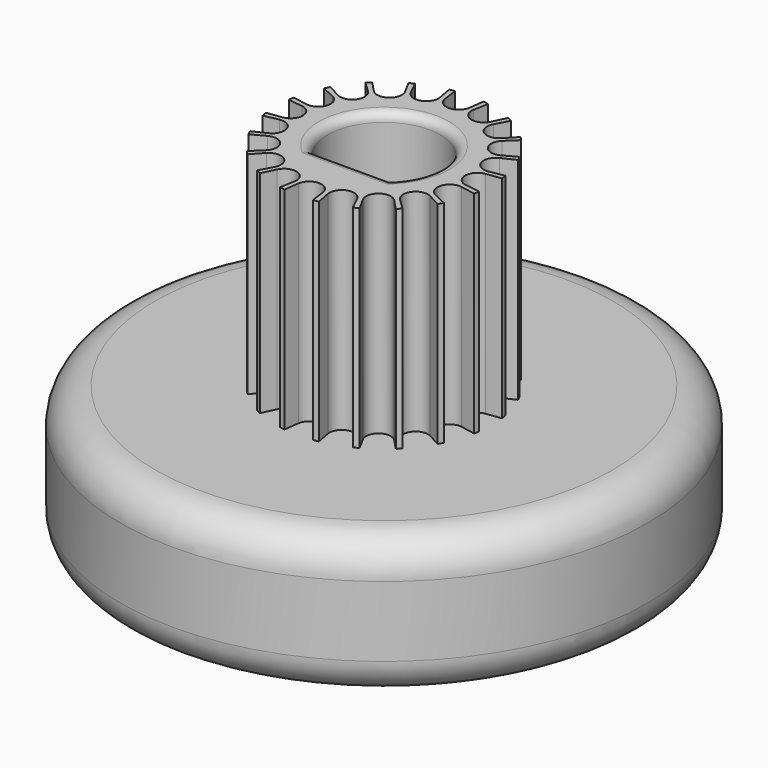
from build123d import *

# Parameters (mm, degrees)
F1_DEPTH = 12
F0_R     = 15
F2_DEPTH = 8
F3_R     = 2
F4_R     = 0.5


with BuildPart() as f1:
    # F0 (on Top) → F1 (new body)
    with BuildSketch(Plane.XY):
        with BuildLine():
            Line((5.2177212806, 0.693890941), (6.0566766418, 0.8054613936))
            ThreePointArc((6.0566766418, 0.8054613936), (6.034775761, 0.9558145814), (6.0091430462, 1.1055767047))
            Line((6.0091430462, 1.1055767047), (5.1767719171, 0.9524350466))
            ThreePointArc((5.1767719171, 0.9524350466), (4.3843705401, 1.4245683441), (4.7479237311, 2.2722940486))
            Line((4.7479237311, 2.2722940486), (5.5113405283, 2.6376553188))
            ThreePointArc((5.5113405283, 2.6376553188), (5.4440498628, 2.7738819534), (5.3733926611, 2.9083932522))
            Line((5.3733926611, 2.9083932522), (4.6290840497, 2.5055300558))
            ThreePointArc((4.6290840497, 2.5055300558), (3.7295683441, 2.7096900131), (3.8133663261, 3.6282691828))
            Line((3.8133663261, 3.6282691828), (4.4265160042, 4.2116571637))
            ThreePointArc((4.4265160042, 4.2116571637), (4.320422433, 4.320422433), (4.2116571637, 4.4265160042))
            Line((4.2116571637, 4.4265160042), (3.6282691828, 3.8133663261))
            ThreePointArc((3.6282691828, 3.8133663261), (2.7096900131, 3.7295683441), (2.5055300558, 4.6290840497))
            Line((2.5055300558, 4.6290840497), (2.9083932522, 5.3733926611))
            ThreePointArc((2.9083932522, 5.3733926611), (2.7738819534, 5.4440498628), (2.6376553188, 5.5113405283))
            Line((2.6376553188, 5.5113405283), (2.2722940486, 4.7479237311))
            ThreePointArc((2.2722940486, 4.7479237311), (1.4245683441, 4.3843705401), (0.9524350466, 5.1767719171))
            Line((0.9524350466, 5.1767719171), (1.1055767047, 6.0091430462))
            ThreePointArc((1.1055767047, 6.0091430462), (0.9558145814, 6.034775761), (0.8054613936, 6.0566766418))
            Line((0.8054613936, 6.0566766418), (0.693890941, 5.2177212806))
            ThreePointArc((0.693890941, 5.2177212806), (0, 4.61), (-0.693890941, 5.2177212806))
            Line((-0.693890941, 5.2177212806), (-0.8054613936, 6.0566766418))
            ThreePointArc((-0.8054613936, 6.0566766418), (-0.9558145814, 6.034775761), (-1.1055767047, 6.0091430462))
            Line((-1.1055767047, 6.0091430462), (-0.9524350466, 5.1767719171))
            ThreePointArc((-0.9524350466, 5.1767719171), (-1.4245683441, 4.3843705401), (-2.2722940486, 4.7479237311))
            Line((-2.2722940486, 4.7479237311), (-2.6376553188, 5.5113405283))
            ThreePointArc((-2.6376553188, 5.5113405283), (-2.7738819534, 5.4440498628), (-2.9083932522, 5.3733926611))
            Line((-2.9083932522, 5.3733926611), (-2.5055300558, 4.6290840497))
            ThreePointArc((-2.5055300558, 4.6290840497), (-2.7096900131, 3.7295683441), (-3.6282691828, 3.8133663261))
            Line((-3.6282691828, 3.8133663261), (-4.2116571637, 4.4265160042))
            ThreePointArc((-4.2116571637, 4.4265160042), (-4.320422433, 4.320422433), (-4.4265160042, 4.2116571637))
            Line((-4.4265160042, 4.2116571637), (-3.8133663261, 3.6282691828))
            ThreePointArc((-3.8133663261, 3.6282691828), (-3.7295683441, 2.7096900131), (-4.6290840497, 2.5055300558))
            Line((-4.6290840497, 2.5055300558), (-5.3733926611, 2.9083932522))
            ThreePointArc((-5.3733926611, 2.9083932522), (-5.4440498628, 2.7738819534), (-5.5113405283, 2.6376553188))
            Line((-5.5113405283, 2.6376553188), (-4.7479237311, 2.2722940486))
            ThreePointArc((-4.7479237311, 2.2722940486), (-4.3843705401, 1.4245683441), (-5.1767719171, 0.9524350466))
            Line((-5.1767719171, 0.9524350466), (-6.0091430462, 1.1055767047))
            ThreePointArc((-6.0091430462, 1.1055767047), (-6.034775761, 0.9558145814), (-6.0566766418, 0.8054613936))
            Line((-6.0566766418, 0.8054613936), (-5.2177212806, 0.693890941))
            ThreePointArc((-5.2177212806, 0.693890941), (-4.61, 0), (-5.2177212806, -0.693890941))
            Line((-5.2177212806, -0.693890941), (-6.0566766418, -0.8054613936))
            ThreePointArc((-6.0566766418, -0.8054613936), (-6.034775761, -0.9558145814), (-6.0091430462, -1.1055767047))
            Line((-6.0091430462, -1.1055767047), (-5.1767719171, -0.9524350466))
            ThreePointArc((-5.1767719171, -0.9524350466), (-4.3843705401, -1.4245683441), (-4.7479237311, -2.2722940486))
            Line((-4.7479237311, -2.2722940486), (-5.5113405283, -2.6376553188))
            ThreePointArc((-5.5113405283, -2.6376553188), (-5.4440498628, -2.7738819534), (-5.3733926611, -2.9083932522))
            Line((-5.3733926611, -2.9083932522), (-4.6290840497, -2.5055300558))
            ThreePointArc((-4.6290840497, -2.5055300558), (-3.7295683441, -2.7096900131), (-3.8133663261, -3.6282691828))
            Line((-3.8133663261, -3.6282691828), (-4.4265160042, -4.2116571637))
            ThreePointArc((-4.4265160042, -4.2116571637), (-4.320422433, -4.320422433), (-4.2116571637, -4.4265160042))
            Line((-4.2116571637, -4.4265160042), (-3.6282691828, -3.8133663261))
            ThreePointArc((-3.6282691828, -3.8133663261), (-2.7096900131, -3.7295683441), (-2.5055300558, -4.6290840497))
            Line((-2.5055300558, -4.6290840497), (-2.9083932522, -5.3733926611))
            ThreePointArc((-2.9083932522, -5.3733926611), (-2.7738819534, -5.4440498628), (-2.6376553188, -5.5113405283))
            Line((-2.6376553188, -5.5113405283), (-2.2722940486, -4.7479237311))
            ThreePointArc((-2.2722940486, -4.7479237311), (-1.4245683441, -4.3843705401), (-0.9524350466, -5.1767719171))
            Line((-0.9524350466, -5.1767719171), (-1.1055767047, -6.0091430462))
            ThreePointArc((-1.1055767047, -6.0091430462), (-0.9558145814, -6.034775761), (-0.8054613936, -6.0566766418))
            Line((-0.8054613936, -6.0566766418), (-0.693890941, -5.2177212806))
            ThreePointArc((-0.693890941, -5.2177212806), (0, -4.61), (0.693890941, -5.2177212806))
            Line((0.693890941, -5.2177212806), (0.8054613936, -6.0566766418))
            ThreePointArc((0.8054613936, -6.0566766418), (0.9558145814, -6.034775761), (1.1055767047, -6.0091430462))
            Line((1.1055767047, -6.0091430462), (0.9524350466, -5.1767719171))
            ThreePointArc((0.9524350466, -5.1767719171), (1.4245683441, -4.3843705401), (2.2722940486, -4.7479237311))
            Line((2.2722940486, -4.7479237311), (2.6376553188, -5.5113405283))
            ThreePointArc((2.6376553188, -5.5113405283), (2.7738819534, -5.4440498628), (2.9083932522, -5.3733926611))
            Line((2.9083932522, -5.3733926611), (2.5055300558, -4.6290840497))
            ThreePointArc((2.5055300558, -4.6290840497), (2.7096900131, -3.7295683441), (3.6282691828, -3.8133663261))
            Line((3.6282691828, -3.8133663261), (4.2116571637, -4.4265160042))
            ThreePointArc((4.2116571637, -4.4265160042), (4.320422433, -4.320422433), (4.4265160042, -4.2116571637))
            Line((4.4265160042, -4.2116571637), (3.8133663261, -3.6282691828))
            ThreePointArc((3.8133663261, -3.6282691828), (3.7295683441, -2.7096900131), (4.6290840497, -2.5055300558))
            Line((4.6290840497, -2.5055300558), (5.3733926611, -2.9083932522))
            ThreePointArc((5.3733926611, -2.9083932522), (5.4440498628, -2.7738819534), (5.5113405283, -2.6376553188))
            Line((5.5113405283, -2.6376553188), (4.7479237311, -2.2722940486))
            ThreePointArc((4.7479237311, -2.2722940486), (4.3843705401, -1.4245683441), (5.1767719171, -0.9524350466))
            Line((5.1767719171, -0.9524350466), (6.0091430462, -1.1055767047))
            ThreePointArc((6.0091430462, -1.1055767047), (6.034775761, -0.9558145814), (6.0566766418, -0.8054613936))
            Line((6.0566766418, -0.8054613936), (5.2177212806, -0.693890941))
            ThreePointArc((5.2177212806, -0.693890941), (4.61, 0), (5.2177212806, 0.693890941))
        make_face()
        with BuildLine():
            ThreePointArc((-2.2248595461, -2.3), (0, 3.2), (2.2248595461, -2.3))
            Line((2.2248595461, -2.3), (-2.2248595461, -2.3))
        make_face(mode=Mode.SUBTRACT)
    extrude(amount=F1_DEPTH)

    # F0 (on Top) → F2 (join)
    with BuildSketch(Plane.XY):
        Circle(F0_R)
        with BuildLine():
            ThreePointArc((6.0566766418, 0.8054613936), (6.096654586, 0.4036122635), (6.11, 0))
            ThreePointArc((6.11, 0), (6.096654586, -0.4036122635), (6.0566766418, -0.8054613936))
            ThreePointArc((6.0566766418, -0.8054613936), (6.034775761, -0.9558145814), (6.0091430462, -1.1055767047))
            ThreePointArc((6.0091430462, -1.1055767047), (5.8109553146, -1.8880938356), (5.5113405283, -2.6376553188))
            ThreePointArc((5.5113405283, -2.6376553188), (5.4440498628, -2.7738819534), (5.3733926611, -2.9083932522))
            ThreePointArc((5.3733926611, -2.9083932522), (4.9430938356, -3.5913678915), (4.4265160042, -4.2116571637))
            ThreePointArc((4.4265160042, -4.2116571637), (4.320422433, -4.320422433), (4.2116571637, -4.4265160042))
            ThreePointArc((4.2116571637, -4.4265160042), (3.5913678915, -4.9430938356), (2.9083932522, -5.3733926611))
            ThreePointArc((2.9083932522, -5.3733926611), (2.7738819534, -5.4440498628), (2.6376553188, -5.5113405283))
            ThreePointArc((2.6376553188, -5.5113405283), (1.8880938356, -5.8109553146), (1.1055767047, -6.0091430462))
            ThreePointArc((1.1055767047, -6.0091430462), (0.9558145814, -6.034775761), (0.8054613936, -6.0566766418))
            ThreePointArc((0.8054613936, -6.0566766418), (0, -6.11), (-0.8054613936, -6.0566766418))
            ThreePointArc((-0.8054613936, -6.0566766418), (-0.9558145814, -6.034775761), (-1.1055767047, -6.0091430462))
            ThreePointArc((-1.1055767047, -6.0091430462), (-1.8880938356, -5.8109553146), (-2.6376553188, -5.5113405283))
            ThreePointArc((-2.6376553188, -5.5113405283), (-2.7738819534, -5.4440498628), (-2.9083932522, -5.3733926611))
            ThreePointArc((-2.9083932522, -5.3733926611), (-3.5913678915, -4.9430938356), (-4.2116571637, -4.4265160042))
            ThreePointArc((-4.2116571637, -4.4265160042), (-4.320422433, -4.320422433), (-4.4265160042, -4.2116571637))
            ThreePointArc((-4.4265160042, -4.2116571637), (-4.9430938356, -3.5913678915), (-5.3733926611, -2.9083932522))
            ThreePointArc((-5.3733926611, -2.9083932522), (-5.4440498628, -2.7738819534), (-5.5113405283, -2.6376553188))
            ThreePointArc((-5.5113405283, -2.6376553188), (-5.8109553146, -1.8880938356), (-6.0091430462, -1.1055767047))
            ThreePointArc((-6.0091430462, -1.1055767047), (-6.034775761, -0.9558145814), (-6.0566766418, -0.8054613936))
            ThreePointArc((-6.0566766418, -0.8054613936), (-6.11, 0), (-6.0566766418, 0.8054613936))
            ThreePointArc((-6.0566766418, 0.8054613936), (-6.034775761, 0.9558145814), (-6.0091430462, 1.1055767047))
            ThreePointArc((-6.0091430462, 1.1055767047), (-5.8109553146, 1.8880938356), (-5.5113405283, 2.6376553188))
            ThreePointArc((-5.5113405283, 2.6376553188), (-5.4440498628, 2.7738819534), (-5.3733926611, 2.9083932522))
            ThreePointArc((-5.3733926611, 2.9083932522), (-4.9430938356, 3.5913678915), (-4.4265160042, 4.2116571637))
            ThreePointArc((-4.4265160042, 4.2116571637), (-4.320422433, 4.320422433), (-4.2116571637, 4.4265160042))
            ThreePointArc((-4.2116571637, 4.4265160042), (-3.5913678915, 4.9430938356), (-2.9083932522, 5.3733926611))
            ThreePointArc((-2.9083932522, 5.3733926611), (-2.7738819534, 5.4440498628), (-2.6376553188, 5.5113405283))
            ThreePointArc((-2.6376553188, 5.5113405283), (-1.8880938356, 5.8109553146), (-1.1055767047, 6.0091430462))
            ThreePointArc((-1.1055767047, 6.0091430462), (-0.9558145814, 6.034775761), (-0.8054613936, 6.0566766418))
            ThreePointArc((-0.8054613936, 6.0566766418), (0, 6.11), (0.8054613936, 6.0566766418))
            ThreePointArc((0.8054613936, 6.0566766418), (0.9558145814, 6.034775761), (1.1055767047, 6.0091430462))
            ThreePointArc((1.1055767047, 6.0091430462), (1.8880938356, 5.8109553146), (2.6376553188, 5.5113405283))
            ThreePointArc((2.6376553188, 5.5113405283), (2.7738819534, 5.4440498628), (2.9083932522, 5.3733926611))
            ThreePointArc((2.9083932522, 5.3733926611), (3.5913678915, 4.9430938356), (4.2116571637, 4.4265160042))
            ThreePointArc((4.2116571637, 4.4265160042), (4.320422433, 4.320422433), (4.4265160042, 4.2116571637))
            ThreePointArc((4.4265160042, 4.2116571637), (4.9430938356, 3.5913678915), (5.3733926611, 2.9083932522))
            ThreePointArc((5.3733926611, 2.9083932522), (5.4440498628, 2.7738819534), (5.5113405283, 2.6376553188))
            ThreePointArc((5.5113405283, 2.6376553188), (5.8109553146, 1.8880938356), (6.0091430462, 1.1055767047))
            ThreePointArc((6.0091430462, 1.1055767047), (6.034775761, 0.9558145814), (6.0566766418, 0.8054613936))
        make_face(mode=Mode.SUBTRACT)
        with BuildLine():
            Line((5.2177212806, 0.693890941), (6.0566766418, 0.8054613936))
            ThreePointArc((6.0566766418, 0.8054613936), (6.034775761, 0.9558145814), (6.0091430462, 1.1055767047))
            Line((6.0091430462, 1.1055767047), (5.1767719171, 0.9524350466))
            ThreePointArc((5.1767719171, 0.9524350466), (4.3843705401, 1.4245683441), (4.7479237311, 2.2722940486))
            Line((4.7479237311, 2.2722940486), (5.5113405283, 2.6376553188))
            ThreePointArc((5.5113405283, 2.6376553188), (5.4440498628, 2.7738819534), (5.3733926611, 2.9083932522))
            Line((5.3733926611, 2.9083932522), (4.6290840497, 2.5055300558))
            ThreePointArc((4.6290840497, 2.5055300558), (3.7295683441, 2.7096900131), (3.8133663261, 3.6282691828))
            Line((3.8133663261, 3.6282691828), (4.4265160042, 4.2116571637))
            ThreePointArc((4.4265160042, 4.2116571637), (4.320422433, 4.320422433), (4.2116571637, 4.4265160042))
            Line((4.2116571637, 4.4265160042), (3.6282691828, 3.8133663261))
            ThreePointArc((3.6282691828, 3.8133663261), (2.7096900131, 3.7295683441), (2.5055300558, 4.6290840497))
            Line((2.5055300558, 4.6290840497), (2.9083932522, 5.3733926611))
            ThreePointArc((2.9083932522, 5.3733926611), (2.7738819534, 5.4440498628), (2.6376553188, 5.5113405283))
            Line((2.6376553188, 5.5113405283), (2.2722940486, 4.7479237311))
            ThreePointArc((2.2722940486, 4.7479237311), (1.4245683441, 4.3843705401), (0.9524350466, 5.1767719171))
            Line((0.9524350466, 5.1767719171), (1.1055767047, 6.0091430462))
            ThreePointArc((1.1055767047, 6.0091430462), (0.9558145814, 6.034775761), (0.8054613936, 6.0566766418))
            Line((0.8054613936, 6.0566766418), (0.693890941, 5.2177212806))
            ThreePointArc((0.693890941, 5.2177212806), (0, 4.61), (-0.693890941, 5.2177212806))
            Line((-0.693890941, 5.2177212806), (-0.8054613936, 6.0566766418))
            ThreePointArc((-0.8054613936, 6.0566766418), (-0.9558145814, 6.034775761), (-1.1055767047, 6.0091430462))
            Line((-1.1055767047, 6.0091430462), (-0.9524350466, 5.1767719171))
            ThreePointArc((-0.9524350466, 5.1767719171), (-1.4245683441, 4.3843705401), (-2.2722940486, 4.7479237311))
            Line((-2.2722940486, 4.7479237311), (-2.6376553188, 5.5113405283))
            ThreePointArc((-2.6376553188, 5.5113405283), (-2.7738819534, 5.4440498628), (-2.9083932522, 5.3733926611))
            Line((-2.9083932522, 5.3733926611), (-2.5055300558, 4.6290840497))
            ThreePointArc((-2.5055300558, 4.6290840497), (-2.7096900131, 3.7295683441), (-3.6282691828, 3.8133663261))
            Line((-3.6282691828, 3.8133663261), (-4.2116571637, 4.4265160042))
            ThreePointArc((-4.2116571637, 4.4265160042), (-4.320422433, 4.320422433), (-4.4265160042, 4.2116571637))
            Line((-4.4265160042, 4.2116571637), (-3.8133663261, 3.6282691828))
            ThreePointArc((-3.8133663261, 3.6282691828), (-3.7295683441, 2.7096900131), (-4.6290840497, 2.5055300558))
            Line((-4.6290840497, 2.5055300558), (-5.3733926611, 2.9083932522))
            ThreePointArc((-5.3733926611, 2.9083932522), (-5.4440498628, 2.7738819534), (-5.5113405283, 2.6376553188))
            Line((-5.5113405283, 2.6376553188), (-4.7479237311, 2.2722940486))
            ThreePointArc((-4.7479237311, 2.2722940486), (-4.3843705401, 1.4245683441), (-5.1767719171, 0.9524350466))
            Line((-5.1767719171, 0.9524350466), (-6.0091430462, 1.1055767047))
            ThreePointArc((-6.0091430462, 1.1055767047), (-6.034775761, 0.9558145814), (-6.0566766418, 0.8054613936))
            Line((-6.0566766418, 0.8054613936), (-5.2177212806, 0.693890941))
            ThreePointArc((-5.2177212806, 0.693890941), (-4.61, 0), (-5.2177212806, -0.693890941))
            Line((-5.2177212806, -0.693890941), (-6.0566766418, -0.8054613936))
            ThreePointArc((-6.0566766418, -0.8054613936), (-6.034775761, -0.9558145814), (-6.0091430462, -1.1055767047))
            Line((-6.0091430462, -1.1055767047), (-5.1767719171, -0.9524350466))
            ThreePointArc((-5.1767719171, -0.9524350466), (-4.3843705401, -1.4245683441), (-4.7479237311, -2.2722940486))
            Line((-4.7479237311, -2.2722940486), (-5.5113405283, -2.6376553188))
            ThreePointArc((-5.5113405283, -2.6376553188), (-5.4440498628, -2.7738819534), (-5.3733926611, -2.9083932522))
            Line((-5.3733926611, -2.9083932522), (-4.6290840497, -2.5055300558))
            ThreePointArc((-4.6290840497, -2.5055300558), (-3.7295683441, -2.7096900131), (-3.8133663261, -3.6282691828))
            Line((-3.8133663261, -3.6282691828), (-4.4265160042, -4.2116571637))
            ThreePointArc((-4.4265160042, -4.2116571637), (-4.320422433, -4.320422433), (-4.2116571637, -4.4265160042))
            Line((-4.2116571637, -4.4265160042), (-3.6282691828, -3.8133663261))
            ThreePointArc((-3.6282691828, -3.8133663261), (-2.7096900131, -3.7295683441), (-2.5055300558, -4.6290840497))
            Line((-2.5055300558, -4.6290840497), (-2.9083932522, -5.3733926611))
            ThreePointArc((-2.9083932522, -5.3733926611), (-2.7738819534, -5.4440498628), (-2.6376553188, -5.5113405283))
            Line((-2.6376553188, -5.5113405283), (-2.2722940486, -4.7479237311))
            ThreePointArc((-2.2722940486, -4.7479237311), (-1.4245683441, -4.3843705401), (-0.9524350466, -5.1767719171))
            Line((-0.9524350466, -5.1767719171), (-1.1055767047, -6.0091430462))
            ThreePointArc((-1.1055767047, -6.0091430462), (-0.9558145814, -6.034775761), (-0.8054613936, -6.0566766418))
            Line((-0.8054613936, -6.0566766418), (-0.693890941, -5.2177212806))
            ThreePointArc((-0.693890941, -5.2177212806), (0, -4.61), (0.693890941, -5.2177212806))
            Line((0.693890941, -5.2177212806), (0.8054613936, -6.0566766418))
            ThreePointArc((0.8054613936, -6.0566766418), (0.9558145814, -6.034775761), (1.1055767047, -6.0091430462))
            Line((1.1055767047, -6.0091430462), (0.9524350466, -5.1767719171))
            ThreePointArc((0.9524350466, -5.1767719171), (1.4245683441, -4.3843705401), (2.2722940486, -4.7479237311))
            Line((2.2722940486, -4.7479237311), (2.6376553188, -5.5113405283))
            ThreePointArc((2.6376553188, -5.5113405283), (2.7738819534, -5.4440498628), (2.9083932522, -5.3733926611))
            Line((2.9083932522, -5.3733926611), (2.5055300558, -4.6290840497))
            ThreePointArc((2.5055300558, -4.6290840497), (2.7096900131, -3.7295683441), (3.6282691828, -3.8133663261))
            Line((3.6282691828, -3.8133663261), (4.2116571637, -4.4265160042))
            ThreePointArc((4.2116571637, -4.4265160042), (4.320422433, -4.320422433), (4.4265160042, -4.2116571637))
            Line((4.4265160042, -4.2116571637), (3.8133663261, -3.6282691828))
            ThreePointArc((3.8133663261, -3.6282691828), (3.7295683441, -2.7096900131), (4.6290840497, -2.5055300558))
            Line((4.6290840497, -2.5055300558), (5.3733926611, -2.9083932522))
            ThreePointArc((5.3733926611, -2.9083932522), (5.4440498628, -2.7738819534), (5.5113405283, -2.6376553188))
            Line((5.5113405283, -2.6376553188), (4.7479237311, -2.2722940486))
            ThreePointArc((4.7479237311, -2.2722940486), (4.3843705401, -1.4245683441), (5.1767719171, -0.9524350466))
            Line((5.1767719171, -0.9524350466), (6.0091430462, -1.1055767047))
            ThreePointArc((6.0091430462, -1.1055767047), (6.034775761, -0.9558145814), (6.0566766418, -0.8054613936))
            Line((6.0566766418, -0.8054613936), (5.2177212806, -0.693890941))
            ThreePointArc((5.2177212806, -0.693890941), (4.61, 0), (5.2177212806, 0.693890941))
        make_face()
        with BuildLine():
            ThreePointArc((-2.2248595461, -2.3), (0, 3.2), (2.2248595461, -2.3))
            Line((2.2248595461, -2.3), (-2.2248595461, -2.3))
        make_face(mode=Mode.SUBTRACT)
        with BuildLine():
            ThreePointArc((-5.3733926611, -2.9083932522), (-4.9430938356, -3.5913678915), (-4.4265160042, -4.2116571637))
            Line((-4.4265160042, -4.2116571637), (-3.8133663261, -3.6282691828))
            ThreePointArc((-3.8133663261, -3.6282691828), (-3.7295683441, -2.7096900131), (-4.6290840497, -2.5055300558))
            Line((-4.6290840497, -2.5055300558), (-5.3733926611, -2.9083932522))
        make_face()
        with BuildLine():
            ThreePointArc((-6.0091430462, -1.1055767047), (-5.8109553146, -1.8880938356), (-5.5113405283, -2.6376553188))
            Line((-5.5113405283, -2.6376553188), (-4.7479237311, -2.2722940486))
            ThreePointArc((-4.7479237311, -2.2722940486), (-4.3843705401, -1.4245683441), (-5.1767719171, -0.9524350466))
            Line((-5.1767719171, -0.9524350466), (-6.0091430462, -1.1055767047))
        make_face()
        with BuildLine():
            ThreePointArc((-4.2116571637, -4.4265160042), (-3.5913678915, -4.9430938356), (-2.9083932522, -5.3733926611))
            Line((-2.9083932522, -5.3733926611), (-2.5055300558, -4.6290840497))
            ThreePointArc((-2.5055300558, -4.6290840497), (-2.7096900131, -3.7295683441), (-3.6282691828, -3.8133663261))
            Line((-3.6282691828, -3.8133663261), (-4.2116571637, -4.4265160042))
        make_face()
        with BuildLine():
            ThreePointArc((-2.6376553188, -5.5113405283), (-1.8880938356, -5.8109553146), (-1.1055767047, -6.0091430462))
            Line((-1.1055767047, -6.0091430462), (-0.9524350466, -5.1767719171))
            ThreePointArc((-0.9524350466, -5.1767719171), (-1.4245683441, -4.3843705401), (-2.2722940486, -4.7479237311))
            Line((-2.2722940486, -4.7479237311), (-2.6376553188, -5.5113405283))
        make_face()
        with BuildLine():
            ThreePointArc((-0.8054613936, -6.0566766418), (0, -6.11), (0.8054613936, -6.0566766418))
            Line((0.8054613936, -6.0566766418), (0.693890941, -5.2177212806))
            ThreePointArc((0.693890941, -5.2177212806), (0, -4.61), (-0.693890941, -5.2177212806))
            Line((-0.693890941, -5.2177212806), (-0.8054613936, -6.0566766418))
        make_face()
        with BuildLine():
            ThreePointArc((1.1055767047, -6.0091430462), (1.8880938356, -5.8109553146), (2.6376553188, -5.5113405283))
            Line((2.6376553188, -5.5113405283), (2.2722940486, -4.7479237311))
            ThreePointArc((2.2722940486, -4.7479237311), (1.4245683441, -4.3843705401), (0.9524350466, -5.1767719171))
            Line((0.9524350466, -5.1767719171), (1.1055767047, -6.0091430462))
        make_face()
        with BuildLine():
            ThreePointArc((2.9083932522, -5.3733926611), (3.5913678915, -4.9430938356), (4.2116571637, -4.4265160042))
            Line((4.2116571637, -4.4265160042), (3.6282691828, -3.8133663261))
            ThreePointArc((3.6282691828, -3.8133663261), (2.7096900131, -3.7295683441), (2.5055300558, -4.6290840497))
            Line((2.5055300558, -4.6290840497), (2.9083932522, -5.3733926611))
        make_face()
        with BuildLine():
            ThreePointArc((4.4265160042, -4.2116571637), (4.9430938356, -3.5913678915), (5.3733926611, -2.9083932522))
            Line((5.3733926611, -2.9083932522), (4.6290840497, -2.5055300558))
            ThreePointArc((4.6290840497, -2.5055300558), (3.7295683441, -2.7096900131), (3.8133663261, -3.6282691828))
            Line((3.8133663261, -3.6282691828), (4.4265160042, -4.2116571637))
        make_face()
        with BuildLine():
            ThreePointArc((5.5113405283, -2.6376553188), (5.8109553146, -1.8880938356), (6.0091430462, -1.1055767047))
            Line((6.0091430462, -1.1055767047), (5.1767719171, -0.9524350466))
            ThreePointArc((5.1767719171, -0.9524350466), (4.3843705401, -1.4245683441), (4.7479237311, -2.2722940486))
            Line((4.7479237311, -2.2722940486), (5.5113405283, -2.6376553188))
        make_face()
        with BuildLine():
            ThreePointArc((6.0566766418, -0.8054613936), (6.096654586, -0.4036122635), (6.11, 0))
            ThreePointArc((6.11, 0), (6.096654586, 0.4036122635), (6.0566766418, 0.8054613936))
            Line((6.0566766418, 0.8054613936), (5.2177212806, 0.693890941))
            ThreePointArc((5.2177212806, 0.693890941), (4.61, 0), (5.2177212806, -0.693890941))
            Line((5.2177212806, -0.693890941), (6.0566766418, -0.8054613936))
        make_face()
        with BuildLine():
            Line((5.1767719171, 0.9524350466), (6.0091430462, 1.1055767047))
            ThreePointArc((6.0091430462, 1.1055767047), (5.8109553146, 1.8880938356), (5.5113405283, 2.6376553188))
            Line((5.5113405283, 2.6376553188), (4.7479237311, 2.2722940486))
            ThreePointArc((4.7479237311, 2.2722940486), (4.3843705401, 1.4245683441), (5.1767719171, 0.9524350466))
        make_face()
        with BuildLine():
            Line((4.6290840497, 2.5055300558), (5.3733926611, 2.9083932522))
            ThreePointArc((5.3733926611, 2.9083932522), (4.9430938356, 3.5913678915), (4.4265160042, 4.2116571637))
            Line((4.4265160042, 4.2116571637), (3.8133663261, 3.6282691828))
            ThreePointArc((3.8133663261, 3.6282691828), (3.7295683441, 2.7096900131), (4.6290840497, 2.5055300558))
        make_face()
        with BuildLine():
            Line((3.6282691828, 3.8133663261), (4.2116571637, 4.4265160042))
            ThreePointArc((4.2116571637, 4.4265160042), (3.5913678915, 4.9430938356), (2.9083932522, 5.3733926611))
            Line((2.9083932522, 5.3733926611), (2.5055300558, 4.6290840497))
            ThreePointArc((2.5055300558, 4.6290840497), (2.7096900131, 3.7295683441), (3.6282691828, 3.8133663261))
        make_face()
        with BuildLine():
            Line((2.2722940486, 4.7479237311), (2.6376553188, 5.5113405283))
            ThreePointArc((2.6376553188, 5.5113405283), (1.8880938356, 5.8109553146), (1.1055767047, 6.0091430462))
            Line((1.1055767047, 6.0091430462), (0.9524350466, 5.1767719171))
            ThreePointArc((0.9524350466, 5.1767719171), (1.4245683441, 4.3843705401), (2.2722940486, 4.7479237311))
        make_face()
        with BuildLine():
            Line((0.693890941, 5.2177212806), (0.8054613936, 6.0566766418))
            ThreePointArc((0.8054613936, 6.0566766418), (0, 6.11), (-0.8054613936, 6.0566766418))
            Line((-0.8054613936, 6.0566766418), (-0.693890941, 5.2177212806))
            ThreePointArc((-0.693890941, 5.2177212806), (0, 4.61), (0.693890941, 5.2177212806))
        make_face()
        with BuildLine():
            Line((-0.9524350466, 5.1767719171), (-1.1055767047, 6.0091430462))
            ThreePointArc((-1.1055767047, 6.0091430462), (-1.8880938356, 5.8109553146), (-2.6376553188, 5.5113405283))
            Line((-2.6376553188, 5.5113405283), (-2.2722940486, 4.7479237311))
            ThreePointArc((-2.2722940486, 4.7479237311), (-1.4245683441, 4.3843705401), (-0.9524350466, 5.1767719171))
        make_face()
        with BuildLine():
            Line((-2.5055300558, 4.6290840497), (-2.9083932522, 5.3733926611))
            ThreePointArc((-2.9083932522, 5.3733926611), (-3.5913678915, 4.9430938356), (-4.2116571637, 4.4265160042))
            Line((-4.2116571637, 4.4265160042), (-3.6282691828, 3.8133663261))
            ThreePointArc((-3.6282691828, 3.8133663261), (-2.7096900131, 3.7295683441), (-2.5055300558, 4.6290840497))
        make_face()
        with BuildLine():
            Line((-3.8133663261, 3.6282691828), (-4.4265160042, 4.2116571637))
            ThreePointArc((-4.4265160042, 4.2116571637), (-4.9430938356, 3.5913678915), (-5.3733926611, 2.9083932522))
            Line((-5.3733926611, 2.9083932522), (-4.6290840497, 2.5055300558))
            ThreePointArc((-4.6290840497, 2.5055300558), (-3.7295683441, 2.7096900131), (-3.8133663261, 3.6282691828))
        make_face()
        with BuildLine():
            Line((-4.7479237311, 2.2722940486), (-5.5113405283, 2.6376553188))
            ThreePointArc((-5.5113405283, 2.6376553188), (-5.8109553146, 1.8880938356), (-6.0091430462, 1.1055767047))
            Line((-6.0091430462, 1.1055767047), (-5.1767719171, 0.9524350466))
            ThreePointArc((-5.1767719171, 0.9524350466), (-4.3843705401, 1.4245683441), (-4.7479237311, 2.2722940486))
        make_face()
        with BuildLine():
            Line((-5.2177212806, 0.693890941), (-6.0566766418, 0.8054613936))
            ThreePointArc((-6.0566766418, 0.8054613936), (-6.11, 0), (-6.0566766418, -0.8054613936))
            Line((-6.0566766418, -0.8054613936), (-5.2177212806, -0.693890941))
            ThreePointArc((-5.2177212806, -0.693890941), (-4.61, 0), (-5.2177212806, 0.693890941))
        make_face()
    extrude(amount=-F2_DEPTH)

    # F3
    f3_edges = [f1.edges().sort_by_distance(p)[0] for p in [
        (-15, 0, 0),
        (-15, 0, -8),
    ]]
    fillet(f3_edges, radius=F3_R)

    # F4
    f4_edges = [f1.edges().sort_by_distance(p)[0] for p in [
        (0, 3.2, 12),
        (0, -2.3, 12),
    ]]
    fillet(f4_edges, radius=F4_R)


solid = f1.part
